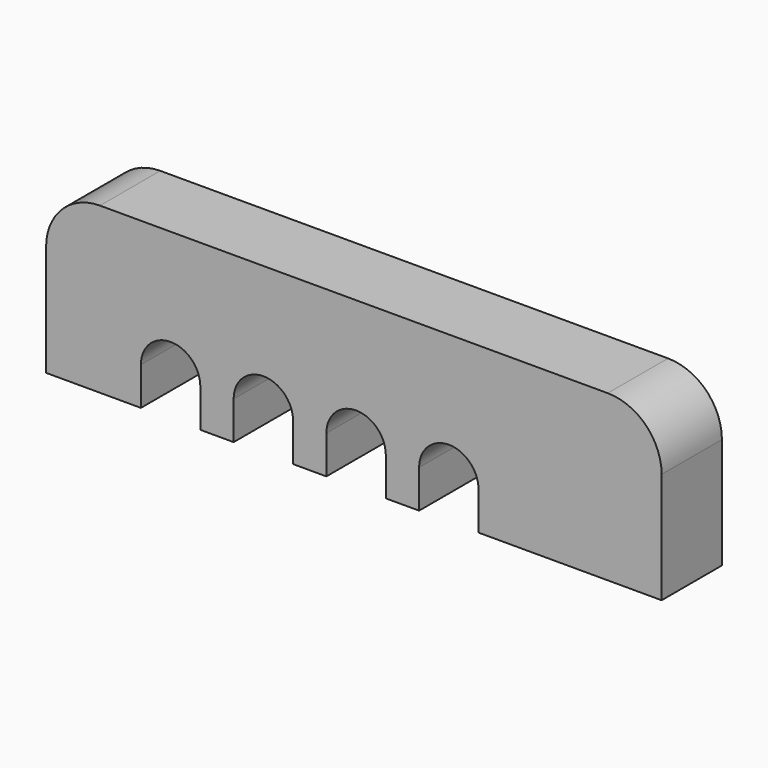
from build123d import *

# Parameters (mm, degrees)
F1_DEPTH = 3.55


with BuildPart() as f1:
    # F0 (on Front) → F1 (new body)
    with BuildSketch(Plane.XZ):
        with BuildLine():
            Line((12.9345, 11.7475), (-10.9855, 11.7475))
            ThreePointArc((-10.9855, 11.7475), (-12.781551, 11.003551), (-13.5255, 9.2075))
            Line((-13.5255, 9.2075), (-13.5255, 3.9844))
            Line((-13.5255, 3.9844), (-9.0581, 3.9844))
            Line((-9.0581, 3.9844), (-9.0581, 5.7769))
            ThreePointArc((-9.0581, 5.7769), (-7.6581, 7.1769), (-6.2581, 5.7769))
            Line((-6.2581, 5.7769), (-6.2581, 3.9844))
            Line((-6.2581, 3.9844), (-4.6893, 3.9844))
            Line((-4.6893, 3.9844), (-4.6893, 5.7769))
            ThreePointArc((-4.6893, 5.7769), (-3.2893, 7.1769), (-1.8893, 5.7769))
            Line((-1.8893, 5.7769), (-1.8893, 3.9844))
            Line((-1.8893, 3.9844), (-0.3205, 3.9844))
            Line((-0.3205, 3.9844), (-0.3205, 5.7769))
            ThreePointArc((-0.3205, 5.7769), (1.0795, 7.1769), (2.4795, 5.7769))
            Line((2.4795, 5.7769), (2.4795, 3.9844))
            Line((2.4795, 3.9844), (4.0483, 3.9844))
            Line((4.0483, 3.9844), (4.0483, 5.7769))
            ThreePointArc((4.0483, 5.7769), (5.4483, 7.1769), (6.8483, 5.7769))
            Line((6.8483, 5.7769), (6.8483, 3.9844))
            Line((6.8483, 3.9844), (15.4745, 3.9844))
            Line((15.4745, 3.9844), (15.4745, 9.2075))
            ThreePointArc((15.4745, 9.2075), (14.730551, 11.003551), (12.9345, 11.7475))
        make_face()
    extrude(amount=F1_DEPTH)


solid = f1.part
